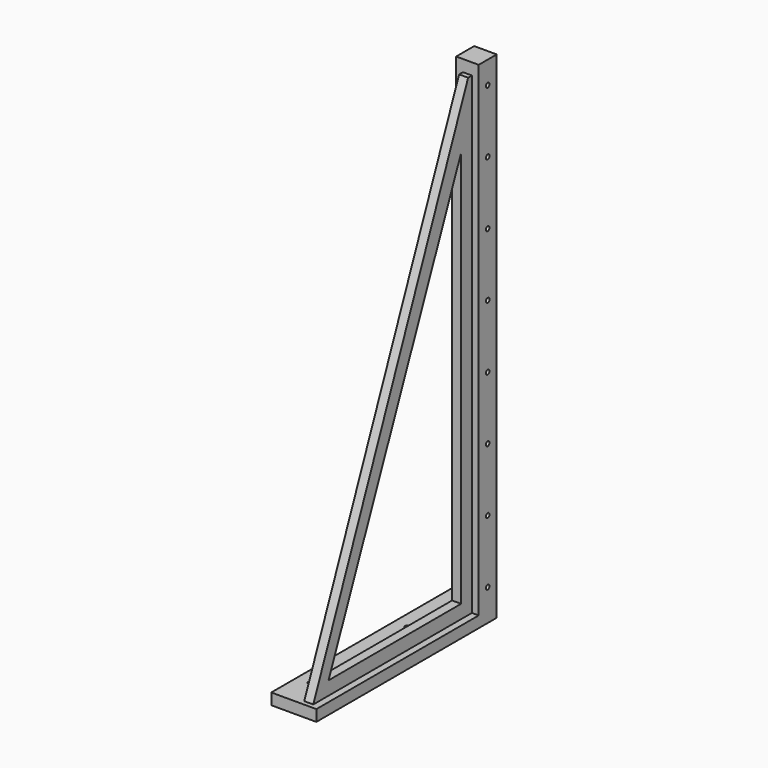
from build123d import *

# Parameters (mm, degrees)
F0_W      = 25.4
F0_H      = 127
F1_DEPTH  = 6.35
F2_W      = 12.7
F2_H      = 12.7
F3_DEPTH  = 273.05
F4_W      = 2.54
F4_H      = 6.5340787411
F5_DEPTH  = 25.4
F7_DEPTH  = 5.08
F8_DEPTH  = 25.4
F10_DEPTH = 25.4
F11_R     = 1.27
F12_DEPTH = 25.4
F15_DEPTH = 25.4
F16_W     = 127
F16_H     = 6.35
F17_DEPTH = 25.4


with BuildPart() as f1:
    # F0 (on Top) → F1 (new body)
    with BuildSketch(Plane.XY):
        with Locations((-12.7, 63.5)):
            Rectangle(F0_W, F0_H)
    extrude(amount=F1_DEPTH)

    # F2 (on face) → F3 (join)
    with BuildSketch(Plane.XY.offset(6.35)):
        with Locations((-19.05, 120.65)):
            Rectangle(F2_W, F2_H)
    extrude(amount=F3_DEPTH)

    # F4 (on face) → F5 (join)
    with BuildSketch(Plane.XZ.offset(-114.3)):
        with Locations((-20.32, 276.1329606295)):
            Rectangle(F4_W, F4_H)
    extrude(amount=F5_DEPTH)

    # F6 (on face) → F7 (join)
    with BuildSketch(Plane(origin=(-21.59, 0, 0), x_dir=(0, -1, 0), z_dir=(-1, 0, 0))):
        Polygon((-13.335, 13.97), (-5.715, 13.97), (-111.6269677877, 272.8659212589), (-114.3, 272.8659212589), (-114.3, 263.1782591343), (-114.3, 6.35), (-106.68, 6.35), (-106.68, 13.97), (-106.68, 217.2529995441), (-106.68, 237.5801540886), align=None)
        Polygon((0, 0), (-5.715, 13.97), (-13.335, 13.97), (-106.68, 13.97), (-106.68, 6.35), (-114.3, 6.35), (-114.3, 0), (-96.3151082397, 0), align=None)
    extrude(amount=-F7_DEPTH)

    # F8 (cut): a face of the model
    f8_faces = [f1.faces().sort_by_distance(p)[0] for p in [
        (-20.32, 88.9, 276.1329606295),
    ]]
    extrude(f8_faces, amount=-F8_DEPTH, mode=Mode.SUBTRACT)

    # F9 (on face) → F10 (cut)
    with BuildSketch(Plane.XY.offset(6.35)):
        with BuildLine():
            ThreePointArc((-6.35, 86.2650498748), (-8.5180256121, 87.1630754869), (-7.62, 84.9950498748))
            ThreePointArc((-7.62, 84.9950498748), (-6.7219743879, 85.3670242627), (-6.35, 86.2650498748))
        make_face()
        with BuildLine():
            ThreePointArc((-7.62, 19.2763266307), (-8.5180256121, 17.1083010186), (-6.35, 18.0063266307))
            Line((-6.35, 18.0063266307), (-7.62, 18.0063266307))
            Line((-7.62, 18.0063266307), (-7.62, 19.2763266307))
        make_face()
        with BuildLine():
            Line((-7.62, 18.0063266307), (-6.35, 18.0063266307))
            ThreePointArc((-6.35, 18.0063266307), (-6.7219743879, 18.9043522428), (-7.62, 19.2763266307))
            Line((-7.62, 19.2763266307), (-7.62, 18.0063266307))
        make_face()
    extrude(amount=-F10_DEPTH, mode=Mode.SUBTRACT)

    # F11 (on face) → F12 (cut)
    with BuildSketch(Plane.YZ.offset(-12.7)):
        with BuildLine():
            ThreePointArc((121.92, 266.7), (121.5480256121, 267.5980256121), (120.65, 267.97))
            ThreePointArc((120.65, 267.97), (119.7519743879, 265.8019743879), (121.92, 266.7))
        make_face()
        with Locations((120.65, 231.14)):
            Circle(F11_R)
        with Locations((120.65, 195.58)):
            Circle(F11_R)
        with Locations((120.65, 160.02)):
            Circle(F11_R)
        with Locations((120.65, 124.46)):
            Circle(F11_R)
        with Locations((120.65, 88.9)):
            Circle(F11_R)
        with Locations((120.65, 53.34)):
            Circle(F11_R)
        with Locations((120.65, 17.78)):
            Circle(F11_R)
    extrude(amount=-F12_DEPTH, mode=Mode.SUBTRACT)

    # F13: F1 across face


with BuildPart() as f1_1:
    add(f1.part)
    add(f1.part.mirror(Plane(origin=(-25.4, 109.7637352167, 116.2702105669), x_dir=(0, -1, 0), z_dir=(-1, 0, 0))))

    # F14 (on face) → F15 (cut)
    with BuildSketch(Plane.YZ):
        Polygon((-6.4147920348, 0), (0, 0), (0, 6.35), (127, 6.35), (127, 291.7480170727), (-6.4147920348, 291.7480170727), align=None)
    extrude(amount=-F15_DEPTH, mode=Mode.SUBTRACT)

    # F16 (on face) → F17 (cut)
    with BuildSketch(Plane.YZ):
        with Locations((63.5, 3.175)):
            Rectangle(F16_W, F16_H)
    extrude(amount=-F17_DEPTH, mode=Mode.SUBTRACT)


solid = f1_1.part
